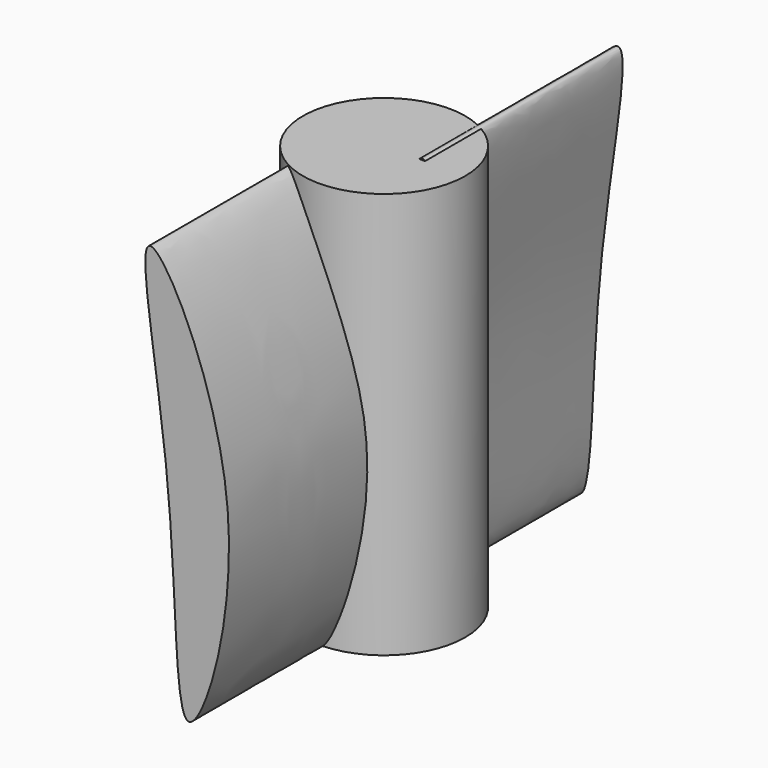
from build123d import *

# Parameters (mm, degrees)
F0_R     = 25.4
F1_DEPTH = 63.5
F3_DEPTH = 76.2
F5_DEPTH = 76.2


with BuildPart() as f1:
    # F0 (on Top) → F1 (new body, symmetric)
    with BuildSketch(Plane.XY):
        Circle(F0_R)
    extrude(amount=F1_DEPTH, both=True)

    # F2 (on Front) → F3 (join)
    with BuildSketch(Plane.XZ):
        with BuildLine():
            add(Edge.make_bspline(
                [(12.2096184641, 63.8697233594), (16.6497383952, 63.1711558384), (2.7274043199, 0.2429049392), (5.5307772535, -94.7888159247), (-25.3704704033, 1.2698705528), (7.6262838241, 64.5908229618), (12.2096184641, 63.8697233594)],
                knots=[0, 0, 0, 0, 0.2482290236, 0.4952357659, 0.7437644253, 1, 1, 1, 1], degree=3))
        make_face()
    extrude(amount=-F3_DEPTH)

    # F4 (on Front) → F5 (join)
    with BuildSketch(Plane.XZ):
        with BuildLine():
            add(Edge.make_bspline(
                [(-12.2534717744, 62.9801180998), (-16.6935917055, 62.2815505789), (-2.7712576302, -0.6467003203), (-5.5746305637, -95.6784211842), (25.3266170931, 0.3802652933), (-7.6701371343, 63.7012177023), (-12.2534717744, 62.9801180998)],
                knots=[0, 0, 0, 0, 0.2482290236, 0.4952357659, 0.7437644253, 1, 1, 1, 1], degree=3))
        make_face()
    extrude(amount=F5_DEPTH)


solid = f1.part
